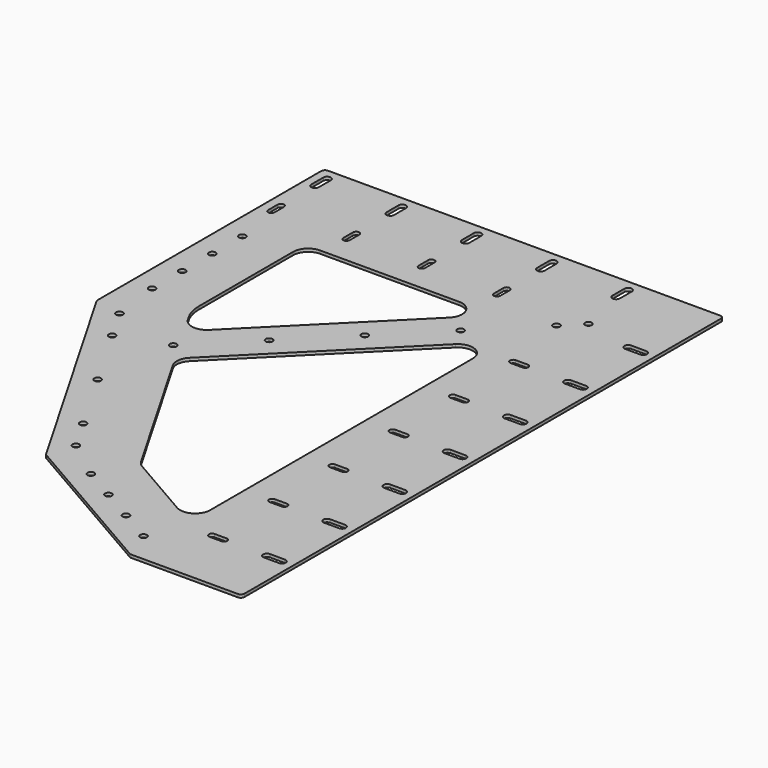
from build123d import *

# Parameters (mm, degrees)
F0_W      = 1500
F0_H      = 1500
F1_DEPTH  = 4
F2_R      = 7.5
F3_DEPTH  = 4.001
F5_DEPTH  = 4.001
F6_R      = 4.5
F7_DEPTH  = 4.001
F8_R      = 4.5
F9_DEPTH  = 4.001
F10_R     = 20
F11_R     = 10
F12_R     = 50
F13_R     = 4.1
F14_DEPTH = 4.001
F16_DEPTH = 4.001
F17_W     = 65
F17_H     = 736
F18_DEPTH = 4
F19_R     = 5
F20_W     = 10
F20_H     = 20
F20_W_2   = 20
F20_H_2   = 10
F21_DEPTH = 4.001


with BuildPart() as f1:
    # F0 (on Top) → F1 (new body)
    with BuildSketch(Plane.XY):
        Rectangle(F0_W, F0_H)
    extrude(amount=F1_DEPTH)

    # F2 (on face) → F3 (cut, through all)
    with BuildSketch(Plane.XY.offset(4)):
        with Locations((0, 630)):
            Circle(F2_R)
        with Locations((-484.1082007155, -208.5)):
            Circle(F2_R)
        with Locations((484.1082007155, -208.5)):
            Circle(F2_R)
        with Locations((-92, 470.0316403495)):
            Circle(F2_R)
        with Locations((92, 470.0316403495)):
            Circle(F2_R)
        with Locations((-127, 409.991150327)):
            Circle(F2_R)
        with Locations((127, 409.991150327)):
            Circle(F2_R)
        with Locations((-230.0749478413, -208.4808014441)):
            Circle(F2_R)
        with Locations((-357.0749478413, 11.4896511171)):
            Circle(F2_R)
        with Locations((-299.5715374564, -208.1901573229)):
            Circle(F2_R)
        with Locations((-391.5715374564, -48.8414830266)):
            Circle(F2_R)
        with Locations((391.5715374564, -48.8414830266)):
            Circle(F2_R)
        with Locations((299.5715374564, -208.1901573229)):
            Circle(F2_R)
        with Locations((230.0749478413, -208.4808014441)):
            Circle(F2_R)
        with Locations((357.0749478413, 11.4896511171)):
            Circle(F2_R)
        with Locations((0, 430)):
            Circle(F2_R)
        with Locations((310.9031199586, -108.5)):
            Circle(F2_R)
        with Locations((-310.9031199586, -108.5)):
            Circle(F2_R)
    extrude(amount=-F3_DEPTH, mode=Mode.SUBTRACT)

    # F4 (on face) → F5 (cut, through all)
    with BuildSketch(Plane.XY.offset(4)):
        Polygon((-374.6760648856, 670), (-627.5735931288, 670), (-397.6981580579, 440.1245649291), (-374.6760648856, 480), align=None)
        Polygon((397.6981580579, 440.1245649291), (627.5735931288, 670), (374.6760648856, 670), (374.6760648856, 480), align=None)
        Polygon((0, 42.4264068712), (257.5, 299.9264068712), (211.3119784648, 379.9264068712), (0, 379.9264068712), (-211.3119784648, 379.9264068712), (-257.5, 299.9264068712), align=None)
        Polygon((0, -42.4264068712), (-184.6092828496, -227.0356897208), (-152.6294373922, -282.4264068712), (0, -282.4264068712), (152.6294373922, -282.4264068712), (184.6092828496, -227.0356897208), align=None)
        Polygon((-315.6883994255, 0), (-215.6675682619, -173.2411613907), (-42.4264068712, 0), (-215.6675682619, 173.2411613907), (-288.5582854123, 246.1318785411), (-373.1754955849, 99.5705713275), align=None)
        Polygon((288.5582854123, 246.1318785411), (215.6675682619, 173.2411613907), (42.4264068712, 0), (215.6675682619, -173.2411613907), (315.6883994255, 0), (373.1754955849, 99.5705713275), align=None)
        Polygon((670, 108.4839396907), (670, 627.5735931288), (428.7564434702, 386.330036599), (548.7564434702, 178.4839396907), align=None)
        Polygon((-523.5898384862, -481.163431615), (-670, -227.5735931288), (-670, -627.5735931288), align=None)
        Polygon((670, -227.5735931288), (523.5898384862, -481.163431615), (670, -627.5735931288), align=None)
        Polygon((117.1539030917, -450), (0, -450), (-117.1539030917, -450), (-325, -570), (-267.264973081, -670), (0, -670), (267.264973081, -670), (325, -570), align=None)
        Polygon((-670, 627.5735931288), (-670, 108.4839396907), (-548.7564434702, 178.4839396907), (-428.7564434702, 386.330036599), align=None)
    extrude(amount=-F5_DEPTH, mode=Mode.SUBTRACT)

    # F6 (on face) → F7 (cut, through all)
    with BuildSketch(Plane.XY.offset(4)):
        with BuildLine():
            ThreePointArc((-604.2, 707), (-600, 702.8), (-595.8, 707))
            Line((-595.8, 707), (-595.8, 723))
            ThreePointArc((-595.8, 723), (-600, 727.2), (-604.2, 723))
            Line((-604.2, 723), (-604.2, 707))
        make_face()
        with BuildLine():
            Line((-504.2, 723), (-504.2, 707))
            ThreePointArc((-504.2, 707), (-500, 702.8), (-495.8, 707))
            Line((-495.8, 707), (-495.8, 723))
            ThreePointArc((-495.8, 723), (-500, 727.2), (-504.2, 723))
        make_face()
        with BuildLine():
            Line((-404.2, 723), (-404.2, 707))
            ThreePointArc((-404.2, 707), (-400, 702.8), (-395.8, 707))
            Line((-395.8, 707), (-395.8, 723))
            ThreePointArc((-395.8, 723), (-400, 727.2), (-404.2, 723))
        make_face()
        with BuildLine():
            Line((-304.2, 723), (-304.2, 707))
            ThreePointArc((-304.2, 707), (-300, 702.8), (-295.8, 707))
            Line((-295.8, 707), (-295.8, 723))
            ThreePointArc((-295.8, 723), (-300, 727.2), (-304.2, 723))
        make_face()
        with BuildLine():
            Line((-204.2, 723), (-204.2, 707))
            ThreePointArc((-204.2, 707), (-200, 702.8), (-195.8, 707))
            Line((-195.8, 707), (-195.8, 723))
            ThreePointArc((-195.8, 723), (-200, 727.2), (-204.2, 723))
        make_face()
        with BuildLine():
            Line((-104.2, 723), (-104.2, 707))
            ThreePointArc((-104.2, 707), (-100, 702.8), (-95.8, 707))
            Line((-95.8, 707), (-95.8, 723))
            ThreePointArc((-95.8, 723), (-100, 727.2), (-104.2, 723))
        make_face()
        with BuildLine():
            Line((-4.2, 723), (-4.2, 707))
            ThreePointArc((-4.2, 707), (0, 702.8), (4.2, 707))
            Line((4.2, 707), (4.2, 723))
            ThreePointArc((4.2, 723), (0, 727.2), (-4.2, 723))
        make_face()
        with BuildLine():
            Line((95.8, 723), (95.8, 707))
            ThreePointArc((95.8, 707), (100, 702.8), (104.2, 707))
            Line((104.2, 707), (104.2, 723))
            ThreePointArc((104.2, 723), (100, 727.2), (95.8, 723))
        make_face()
        with BuildLine():
            Line((195.8, 723), (195.8, 707))
            ThreePointArc((195.8, 707), (200, 702.8), (204.2, 707))
            Line((204.2, 707), (204.2, 723))
            ThreePointArc((204.2, 723), (200, 727.2), (195.8, 723))
        make_face()
        with BuildLine():
            Line((295.8, 723), (295.8, 707))
            ThreePointArc((295.8, 707), (300, 702.8), (304.2, 707))
            Line((304.2, 707), (304.2, 723))
            ThreePointArc((304.2, 723), (300, 727.2), (295.8, 723))
        make_face()
        with BuildLine():
            Line((395.8, 723), (395.8, 707))
            ThreePointArc((395.8, 707), (400, 702.8), (404.2, 707))
            Line((404.2, 707), (404.2, 723))
            ThreePointArc((404.2, 723), (400, 727.2), (395.8, 723))
        make_face()
        with BuildLine():
            Line((495.8, 723), (495.8, 707))
            ThreePointArc((495.8, 707), (500, 702.8), (504.2, 707))
            Line((504.2, 707), (504.2, 723))
            ThreePointArc((504.2, 723), (500, 727.2), (495.8, 723))
        make_face()
        with BuildLine():
            Line((595.8, 723), (595.8, 707))
            ThreePointArc((595.8, 707), (600, 702.8), (604.2, 707))
            Line((604.2, 707), (604.2, 723))
            ThreePointArc((604.2, 723), (600, 727.2), (595.8, 723))
        make_face()
        with BuildLine():
            ThreePointArc((-304.2, -723), (-300, -727.2), (-295.8, -723))
            Line((-295.8, -723), (-295.8, -707))
            ThreePointArc((-295.8, -707), (-300, -702.8), (-304.2, -707))
            Line((-304.2, -707), (-304.2, -723))
        make_face()
        with BuildLine():
            ThreePointArc((-504.2, -723), (-500, -727.2), (-495.8, -723))
            Line((-495.8, -723), (-495.8, -707))
            ThreePointArc((-495.8, -707), (-500, -702.8), (-504.2, -707))
            Line((-504.2, -707), (-504.2, -723))
        make_face()
        with BuildLine():
            Line((304.2, -723), (304.2, -707))
            ThreePointArc((304.2, -707), (300, -702.8), (295.8, -707))
            Line((295.8, -707), (295.8, -723))
            ThreePointArc((295.8, -723), (300, -727.2), (304.2, -723))
        make_face()
        with BuildLine():
            ThreePointArc((-595.8, -707), (-600, -702.8), (-604.2, -707))
            Line((-604.2, -707), (-604.2, -723))
            ThreePointArc((-604.2, -723), (-600, -727.2), (-595.8, -723))
            Line((-595.8, -723), (-595.8, -707))
        make_face()
        with BuildLine():
            ThreePointArc((4.2, -707), (0, -702.8), (-4.2, -707))
            Line((-4.2, -707), (-4.2, -723))
            ThreePointArc((-4.2, -723), (0, -727.2), (4.2, -723))
            Line((4.2, -723), (4.2, -707))
        make_face()
        with BuildLine():
            ThreePointArc((95.8, -723), (100, -727.2), (104.2, -723))
            Line((104.2, -723), (104.2, -707))
            ThreePointArc((104.2, -707), (100, -702.8), (95.8, -707))
            Line((95.8, -707), (95.8, -723))
        make_face()
        with BuildLine():
            ThreePointArc((-204.2, -723), (-200, -727.2), (-195.8, -723))
            Line((-195.8, -723), (-195.8, -707))
            ThreePointArc((-195.8, -707), (-200, -702.8), (-204.2, -707))
            Line((-204.2, -707), (-204.2, -723))
        make_face()
        with BuildLine():
            ThreePointArc((404.2, -707), (400, -702.8), (395.8, -707))
            Line((395.8, -707), (395.8, -723))
            ThreePointArc((395.8, -723), (400, -727.2), (404.2, -723))
            Line((404.2, -723), (404.2, -707))
        make_face()
        with BuildLine():
            ThreePointArc((495.8, -723), (500, -727.2), (504.2, -723))
            Line((504.2, -723), (504.2, -707))
            ThreePointArc((504.2, -707), (500, -702.8), (495.8, -707))
            Line((495.8, -707), (495.8, -723))
        make_face()
        with BuildLine():
            Line((-395.8, -723), (-395.8, -707))
            ThreePointArc((-395.8, -707), (-400, -702.8), (-404.2, -707))
            Line((-404.2, -707), (-404.2, -723))
            ThreePointArc((-404.2, -723), (-400, -727.2), (-395.8, -723))
        make_face()
        with BuildLine():
            ThreePointArc((595.8, -723), (600, -727.2), (604.2, -723))
            Line((604.2, -723), (604.2, -707))
            ThreePointArc((604.2, -707), (600, -702.8), (595.8, -707))
            Line((595.8, -707), (595.8, -723))
        make_face()
        with BuildLine():
            Line((204.2, -723), (204.2, -707))
            ThreePointArc((204.2, -707), (200, -702.8), (195.8, -707))
            Line((195.8, -707), (195.8, -723))
            ThreePointArc((195.8, -723), (200, -727.2), (204.2, -723))
        make_face()
        with BuildLine():
            Line((-95.8, -723), (-95.8, -707))
            ThreePointArc((-95.8, -707), (-100, -702.8), (-104.2, -707))
            Line((-104.2, -707), (-104.2, -723))
            ThreePointArc((-104.2, -723), (-100, -727.2), (-95.8, -723))
        make_face()
        with BuildLine():
            Line((-723, 595.8), (-707, 595.8))
            ThreePointArc((-707, 595.8), (-702.8, 600), (-707, 604.2))
            Line((-707, 604.2), (-723, 604.2))
            ThreePointArc((-723, 604.2), (-727.2, 600), (-723, 595.8))
        make_face()
        with BuildLine():
            ThreePointArc((-723, 504.2), (-727.2, 500), (-723, 495.8))
            Line((-723, 495.8), (-707, 495.8))
            ThreePointArc((-707, 495.8), (-702.8, 500), (-707, 504.2))
            Line((-707, 504.2), (-723, 504.2))
        make_face()
        with BuildLine():
            ThreePointArc((-723, -95.8), (-727.2, -100), (-723, -104.2))
            Line((-723, -104.2), (-707, -104.2))
            ThreePointArc((-707, -104.2), (-702.8, -100), (-707, -95.8))
            Line((-707, -95.8), (-723, -95.8))
        make_face()
        with BuildLine():
            ThreePointArc((-723, 304.2), (-727.2, 300), (-723, 295.8))
            Line((-723, 295.8), (-707, 295.8))
            ThreePointArc((-707, 295.8), (-702.8, 300), (-707, 304.2))
            Line((-707, 304.2), (-723, 304.2))
        make_face()
        with BuildLine():
            ThreePointArc((-707, 395.8), (-702.8, 400), (-707, 404.2))
            Line((-707, 404.2), (-723, 404.2))
            ThreePointArc((-723, 404.2), (-727.2, 400), (-723, 395.8))
            Line((-723, 395.8), (-707, 395.8))
        make_face()
        with BuildLine():
            ThreePointArc((-723, -495.8), (-727.2, -500), (-723, -504.2))
            Line((-723, -504.2), (-707, -504.2))
            ThreePointArc((-707, -504.2), (-702.8, -500), (-707, -495.8))
            Line((-707, -495.8), (-723, -495.8))
        make_face()
        with BuildLine():
            ThreePointArc((-707, -604.2), (-702.8, -600), (-707, -595.8))
            Line((-707, -595.8), (-723, -595.8))
            ThreePointArc((-723, -595.8), (-727.2, -600), (-723, -604.2))
            Line((-723, -604.2), (-707, -604.2))
        make_face()
        with BuildLine():
            ThreePointArc((-707, -204.2), (-702.8, -200), (-707, -195.8))
            Line((-707, -195.8), (-723, -195.8))
            ThreePointArc((-723, -195.8), (-727.2, -200), (-723, -204.2))
            Line((-723, -204.2), (-707, -204.2))
        make_face()
        with BuildLine():
            ThreePointArc((-707, 195.8), (-702.8, 200), (-707, 204.2))
            Line((-707, 204.2), (-723, 204.2))
            ThreePointArc((-723, 204.2), (-727.2, 200), (-723, 195.8))
            Line((-723, 195.8), (-707, 195.8))
        make_face()
        with BuildLine():
            ThreePointArc((-707, -304.2), (-702.8, -300), (-707, -295.8))
            Line((-707, -295.8), (-723, -295.8))
            ThreePointArc((-723, -295.8), (-727.2, -300), (-723, -304.2))
            Line((-723, -304.2), (-707, -304.2))
        make_face()
        with BuildLine():
            ThreePointArc((-707, 95.8), (-702.8, 100), (-707, 104.2))
            Line((-707, 104.2), (-723, 104.2))
            ThreePointArc((-723, 104.2), (-727.2, 100), (-723, 95.8))
            Line((-723, 95.8), (-707, 95.8))
        make_face()
        with BuildLine():
            ThreePointArc((-707, -404.2), (-702.8, -400), (-707, -395.8))
            Line((-707, -395.8), (-723, -395.8))
            ThreePointArc((-723, -395.8), (-727.2, -400), (-723, -404.2))
            Line((-723, -404.2), (-707, -404.2))
        make_face()
        with BuildLine():
            ThreePointArc((-707, -4.2), (-702.8, 0), (-707, 4.2))
            Line((-707, 4.2), (-723, 4.2))
            ThreePointArc((-723, 4.2), (-727.2, 0), (-723, -4.2))
            Line((-723, -4.2), (-707, -4.2))
        make_face()
        with BuildLine():
            Line((707, -304.2), (723, -304.2))
            ThreePointArc((723, -304.2), (727.2, -300), (723, -295.8))
            Line((723, -295.8), (707, -295.8))
            ThreePointArc((707, -295.8), (702.8, -300), (707, -304.2))
        make_face()
        with BuildLine():
            Line((707, -4.2), (723, -4.2))
            ThreePointArc((723, -4.2), (727.2, 0), (723, 4.2))
            Line((723, 4.2), (707, 4.2))
            ThreePointArc((707, 4.2), (702.8, 0), (707, -4.2))
        make_face()
        with BuildLine():
            Line((723, 604.2), (707, 604.2))
            ThreePointArc((707, 604.2), (702.8, 600), (707, 595.8))
            Line((707, 595.8), (723, 595.8))
            ThreePointArc((723, 595.8), (727.2, 600), (723, 604.2))
        make_face()
        with BuildLine():
            Line((707, -104.2), (723, -104.2))
            ThreePointArc((723, -104.2), (727.2, -100), (723, -95.8))
            Line((723, -95.8), (707, -95.8))
            ThreePointArc((707, -95.8), (702.8, -100), (707, -104.2))
        make_face()
        with BuildLine():
            ThreePointArc((707, 104.2), (702.8, 100), (707, 95.8))
            Line((707, 95.8), (723, 95.8))
            ThreePointArc((723, 95.8), (727.2, 100), (723, 104.2))
            Line((723, 104.2), (707, 104.2))
        make_face()
        with BuildLine():
            ThreePointArc((707, -195.8), (702.8, -200), (707, -204.2))
            Line((707, -204.2), (723, -204.2))
            ThreePointArc((723, -204.2), (727.2, -200), (723, -195.8))
            Line((723, -195.8), (707, -195.8))
        make_face()
        with BuildLine():
            Line((723, 304.2), (707, 304.2))
            ThreePointArc((707, 304.2), (702.8, 300), (707, 295.8))
            Line((707, 295.8), (723, 295.8))
            ThreePointArc((723, 295.8), (727.2, 300), (723, 304.2))
        make_face()
        with BuildLine():
            Line((723, -395.8), (707, -395.8))
            ThreePointArc((707, -395.8), (702.8, -400), (707, -404.2))
            Line((707, -404.2), (723, -404.2))
            ThreePointArc((723, -404.2), (727.2, -400), (723, -395.8))
        make_face()
        with BuildLine():
            Line((723, 504.2), (707, 504.2))
            ThreePointArc((707, 504.2), (702.8, 500), (707, 495.8))
            Line((707, 495.8), (723, 495.8))
            ThreePointArc((723, 495.8), (727.2, 500), (723, 504.2))
        make_face()
        with BuildLine():
            Line((723, 204.2), (707, 204.2))
            ThreePointArc((707, 204.2), (702.8, 200), (707, 195.8))
            Line((707, 195.8), (723, 195.8))
            ThreePointArc((723, 195.8), (727.2, 200), (723, 204.2))
        make_face()
        with BuildLine():
            Line((707, 395.8), (723, 395.8))
            ThreePointArc((723, 395.8), (727.2, 400), (723, 404.2))
            Line((723, 404.2), (707, 404.2))
            ThreePointArc((707, 404.2), (702.8, 400), (707, 395.8))
        make_face()
        with BuildLine():
            Line((723, -595.8), (707, -595.8))
            ThreePointArc((707, -595.8), (702.8, -600), (707, -604.2))
            Line((707, -604.2), (723, -604.2))
            ThreePointArc((723, -604.2), (727.2, -600), (723, -595.8))
        make_face()
        with BuildLine():
            Line((707, -504.2), (723, -504.2))
            ThreePointArc((723, -504.2), (727.2, -500), (723, -495.8))
            Line((723, -495.8), (707, -495.8))
            ThreePointArc((707, -495.8), (702.8, -500), (707, -504.2))
        make_face()
        with Locations((-715, 715)):
            Circle(F6_R)
        with Locations((715, 715)):
            Circle(F6_R)
        with Locations((-715, -715)):
            Circle(F6_R)
        with Locations((715, -715)):
            Circle(F6_R)
    extrude(amount=-F7_DEPTH, mode=Mode.SUBTRACT)

    # F8 (on face) → F9 (cut, through all)
    with BuildSketch(Plane.XY.offset(4)):
        with Locations((311.7999814952, 644.4301434281)):
            Circle(F8_R)
        with Locations((311.7999814952, 544.4301434281)):
            Circle(F8_R)
        with Locations((345.5499814952, 385.9734286726)):
            Circle(F8_R)
        with Locations((395.5499814952, 299.3708882942)):
            Circle(F8_R)
        with Locations((445.5499814952, 212.7683479158)):
            Circle(F8_R)
        with Locations((565.9025218736, 104.3116331603)):
            Circle(F8_R)
        with Locations((652.5050622521, 54.3116331603)):
            Circle(F8_R)
        with Locations((311.7999814952, 494.4301434281)):
            Circle(F8_R)
        with Locations((522.6012516844, 129.3116331603)):
            Circle(F8_R)
        with Locations((311.7999814952, 594.4301434281)):
            Circle(F8_R)
        with Locations((609.2037920629, 79.3116331603)):
            Circle(F8_R)
        with Locations((320.5499814952, 429.2746988619)):
            Circle(F8_R)
        with Locations((-522.6012516844, 129.3116331603)):
            Circle(F8_R)
        with Locations((-565.9025218736, 104.3116331603)):
            Circle(F8_R)
        with Locations((-609.2037920629, 79.3116331603)):
            Circle(F8_R)
        with Locations((-652.5050622521, 54.3116331603)):
            Circle(F8_R)
        with Locations((-311.7999814952, 544.4301434281)):
            Circle(F8_R)
        with Locations((-311.7999814952, 594.4301434281)):
            Circle(F8_R)
        with Locations((-311.7999814952, 644.4301434281)):
            Circle(F8_R)
        with Locations((-311.7999814952, 494.4301434281)):
            Circle(F8_R)
        with Locations((-320.5499814952, 429.2746988619)):
            Circle(F8_R)
        with Locations((-345.5499814952, 385.9734286726)):
            Circle(F8_R)
        with Locations((-395.5499814952, 299.3708882942)):
            Circle(F8_R)
        with Locations((-445.5499814952, 212.7683479158)):
            Circle(F8_R)
        with Locations((210.8012701892, -410.7417765884)):
            Circle(F8_R)
        with Locations((297.4038105677, -460.7417765884)):
            Circle(F8_R)
        with Locations((340.7050807569, -485.7417765884)):
            Circle(F8_R)
        with Locations((254.1025403784, -435.7417765884)):
            Circle(F8_R)
        with Locations((100, -385.7417765884)):
            Circle(F8_R)
        with Locations((-150, -385.7417765884)):
            Circle(F8_R)
        with Locations((0, -385.7417765884)):
            Circle(F8_R)
        with Locations((-297.4038105677, -460.7417765884)):
            Circle(F8_R)
        with Locations((-340.7050807569, -485.7417765884)):
            Circle(F8_R)
        with Locations((-210.8012701892, -410.7417765884)):
            Circle(F8_R)
        with Locations((-254.1025403784, -435.7417765884)):
            Circle(F8_R)
        with Locations((-100, -385.7417765884)):
            Circle(F8_R)
        with Locations((470.5499814952, 169.4670777265)):
            Circle(F8_R)
        with Locations((150, -385.7417765884)):
            Circle(F8_R)
        with Locations((-470.5499814952, 169.4670777265)):
            Circle(F8_R)
        with Locations((-650.8172400786, -131.5444279957)):
            Circle(F8_R)
        with Locations((-600.8172400786, -218.1469683742)):
            Circle(F8_R)
        with Locations((-550.8172400786, -304.7495087526)):
            Circle(F8_R)
        with Locations((-500.8172400786, -391.3520491311)):
            Circle(F8_R)
        with Locations((-450.8172400786, -477.9545895095)):
            Circle(F8_R)
        with Locations((-400.8172400786, -564.5571298879)):
            Circle(F8_R)
        with Locations((-350.8172400786, -651.1596702664)):
            Circle(F8_R)
        with Locations((691.4213562373, 691.4213562373)):
            Circle(F8_R)
        with Locations((620.7106781187, 620.7106781187)):
            Circle(F8_R)
        with Locations((550, 550)):
            Circle(F8_R)
        with Locations((479.2893218813, 479.2893218813)):
            Circle(F8_R)
        with Locations((408.5786437627, 408.5786437627)):
            Circle(F8_R)
        with Locations((-408.5786437627, 408.5786437627)):
            Circle(F8_R)
        with Locations((-550, 550)):
            Circle(F8_R)
        with Locations((-479.2893218813, 479.2893218813)):
            Circle(F8_R)
        with Locations((-620.7106781187, 620.7106781187)):
            Circle(F8_R)
        with Locations((-691.4213562373, 691.4213562373)):
            Circle(F8_R)
        with Locations((600.8172400786, -218.1469683742)):
            Circle(F8_R)
        with Locations((550.8172400786, -304.7495087526)):
            Circle(F8_R)
        with Locations((650.8172400786, -131.5444279957)):
            Circle(F8_R)
        with Locations((450.8172400786, -477.9545895095)):
            Circle(F8_R)
        with Locations((500.8172400786, -391.3520491311)):
            Circle(F8_R)
        with Locations((400.8172400786, -564.5571298879)):
            Circle(F8_R)
        with Locations((350.8172400786, -651.1596702664)):
            Circle(F8_R)
        Circle(F8_R)
        with Locations((-70.7106781187, 70.7106781187)):
            Circle(F8_R)
        with Locations((-141.4213562373, 141.4213562373)):
            Circle(F8_R)
        with Locations((-212.132034356, 212.132034356)):
            Circle(F8_R)
        with Locations((-282.8427124746, 282.8427124746)):
            Circle(F8_R)
        with Locations((70.7106781187, 70.7106781187)):
            Circle(F8_R)
        with Locations((141.4213562373, 141.4213562373)):
            Circle(F8_R)
        with Locations((212.132034356, 212.132034356)):
            Circle(F8_R)
        with Locations((282.8427124746, 282.8427124746)):
            Circle(F8_R)
        with Locations((-70.7106781187, -70.7106781187)):
            Circle(F8_R)
        with Locations((-141.4213562373, -141.4213562373)):
            Circle(F8_R)
        with Locations((70.7106781187, -70.7106781187)):
            Circle(F8_R)
        with Locations((141.4213562373, -141.4213562373)):
            Circle(F8_R)
    extrude(amount=-F9_DEPTH, mode=Mode.SUBTRACT)

    # F10
    f10_edges = [f1.edges().sort_by_distance(p)[0] for p in [
        (-627.573593, 670, 2),
        (-374.676065, 670, 2),
        (-397.698158, 440.124565, 2),
        (627.573593, 670, 2),
        (374.676065, 670, 2),
        (397.698158, 440.124565, 2),
        (-670, 627.573593, 2),
        (-428.756443, 386.330037, 2),
        (-548.756443, 178.48394, 2),
        (-670, 108.48394, 2),
        (670, 627.573593, 2),
        (428.756443, 386.330037, 2),
        (548.756443, 178.48394, 2),
        (670, 108.48394, 2),
        (-211.311978, 379.926407, 2),
        (211.311978, 379.926407, 2),
        (257.5, 299.926407, 2),
        (0, 42.426407, 2),
        (-257.5, 299.926407, 2),
        (-288.558285, 246.131879, 2),
        (-373.175496, 99.570571, 2),
        (-42.426407, 0, 2),
        (-215.667568, -173.241161, 2),
        (288.558285, 246.131879, 2),
        (373.175496, 99.570571, 2),
        (215.667568, -173.241161, 2),
        (42.426407, 0, 2),
        (0, -42.426407, 2),
        (184.609283, -227.03569, 2),
        (152.629437, -282.426407, 2),
        (-152.629437, -282.426407, 2),
        (-184.609283, -227.03569, 2),
        (-523.589838, -481.163432, 2),
        (-117.153903, -450, 2),
        (117.153903, -450, 2),
        (325, -570, 2),
        (267.264973, -670, 2),
        (-267.264973, -670, 2),
        (-325, -570, 2),
        (523.589838, -481.163432, 2),
    ]]
    fillet(f10_edges, radius=F10_R)

    # F11
    f11_edges = [f1.edges().sort_by_distance(p)[0] for p in [
        (-670, -227.573593, 2),
        (-670, -627.573593, 2),
        (670, -227.573593, 2),
        (670, -627.573593, 2),
    ]]
    fillet(f11_edges, radius=F11_R)

    # F12
    f12_edges = [f1.edges().sort_by_distance(p)[0] for p in [
        (-374.676065, 480, 2),
        (374.676065, 480, 2),
    ]]
    fillet(f12_edges, radius=F12_R)

    # F13 (on face) → F14 (cut, through all)
    with BuildSketch(Plane.XY.offset(4)):
        with Locations((-235, 480.0316403495)):
            Circle(F13_R)
        with Locations((-285, 393.429099971)):
            Circle(F13_R)
        with Locations((-335, 306.8265595926)):
            Circle(F13_R)
        with Locations((335, 306.8265595926)):
            Circle(F13_R)
        with Locations((285, 393.429099971)):
            Circle(F13_R)
        with Locations((235, 480.0316403495)):
            Circle(F13_R)
        with Locations((-385, 220.2240192142)):
            Circle(F13_R)
        with Locations((385, 220.2240192142)):
            Circle(F13_R)
        with Locations((-435, 133.6214788357)):
            Circle(F13_R)
        with Locations((435, 133.6214788357)):
            Circle(F13_R)
        with Locations((-485, 47.0189384573)):
            Circle(F13_R)
        with Locations((485, 47.0189384573)):
            Circle(F13_R)
    extrude(amount=-F14_DEPTH, mode=Mode.SUBTRACT)

    # F15 (on face) → F16 (cut, through all)
    with BuildSketch(Plane.XY.offset(4)):
        Polygon((284, 750), (-750, 750), (-750, -750), (750, -750), (750, 14), (667, 14), (459, 134.0888559914), (284, 437.197747316), align=None)
    extrude(amount=-F16_DEPTH, mode=Mode.SUBTRACT)

    # F17 (on face) → F18 (join)
    with BuildSketch(Plane.XY.offset(4)):
        Polygon((284, 815), (284, 750), (750, 750), (815, 750), (815, 815), align=None)
        with Locations((782.5, 382)):
            Rectangle(F17_W, F17_H)
    extrude(amount=-F18_DEPTH)

    # F19
    f19_edges = [f1.edges().sort_by_distance(p)[0] for p in [
        (284, 815, 2),
        (815, 815, 2),
        (815, 14, 2),
        (667, 14, 2),
        (459, 134.088856, 2),
        (284, 437.197747, 2),
    ]]
    fillet(f19_edges, radius=F19_R)

    # F20 (on face) → F21 (cut, through all)
    with BuildSketch(Plane.XY.offset(4)):
        with BuildLine():
            ThreePointArc((304.8, 800), (299.8, 805), (294.8, 800))
            Line((294.8, 800), (304.8, 800))
        make_face()
        with Locations((299.8, 790)):
            Rectangle(F20_W, F20_H)
        with BuildLine():
            Line((304.8, 780), (294.8, 780))
            ThreePointArc((294.8, 780), (299.8, 775), (304.8, 780))
        make_face()
        with BuildLine():
            Line((404.8, 780), (404.8, 800))
            ThreePointArc((404.8, 800), (399.8, 805), (394.8, 800))
            Line((394.8, 800), (394.8, 780))
            ThreePointArc((394.8, 780), (399.8, 775), (404.8, 780))
        make_face()
        with BuildLine():
            Line((504.8, 780), (504.8, 800))
            ThreePointArc((504.8, 800), (499.8, 805), (494.8, 800))
            Line((494.8, 800), (494.8, 780))
            ThreePointArc((494.8, 780), (499.8, 775), (504.8, 780))
        make_face()
        with BuildLine():
            Line((604.8, 780), (604.8, 800))
            ThreePointArc((604.8, 800), (599.8, 805), (594.8, 800))
            Line((594.8, 800), (594.8, 780))
            ThreePointArc((594.8, 780), (599.8, 775), (604.8, 780))
        make_face()
        with BuildLine():
            Line((704.8, 780), (704.8, 800))
            ThreePointArc((704.8, 800), (699.8, 805), (694.8, 800))
            Line((694.8, 800), (694.8, 780))
            ThreePointArc((694.8, 780), (699.8, 775), (704.8, 780))
        make_face()
        with BuildLine():
            ThreePointArc((800, -5.2), (805, -0.2), (800, 4.8))
            Line((800, 4.8), (800, -5.2))
        make_face()
        with Locations((790, -0.2)):
            Rectangle(F20_W_2, F20_H_2)
        with BuildLine():
            Line((780, -5.2), (780, 4.8))
            ThreePointArc((780, 4.8), (775, -0.2), (780, -5.2))
        make_face()
        with BuildLine():
            Line((780, 94.8), (800, 94.8))
            ThreePointArc((800, 94.8), (805, 99.8), (800, 104.8))
            Line((800, 104.8), (780, 104.8))
            ThreePointArc((780, 104.8), (775, 99.8), (780, 94.8))
        make_face()
        with BuildLine():
            Line((780, 194.8), (800, 194.8))
            ThreePointArc((800, 194.8), (805, 199.8), (800, 204.8))
            Line((800, 204.8), (780, 204.8))
            ThreePointArc((780, 204.8), (775, 199.8), (780, 194.8))
        make_face()
        with BuildLine():
            Line((780, 294.8), (800, 294.8))
            ThreePointArc((800, 294.8), (805, 299.8), (800, 304.8))
            Line((800, 304.8), (780, 304.8))
            ThreePointArc((780, 304.8), (775, 299.8), (780, 294.8))
        make_face()
        with BuildLine():
            Line((780, 394.8), (800, 394.8))
            ThreePointArc((800, 394.8), (805, 399.8), (800, 404.8))
            Line((800, 404.8), (780, 404.8))
            ThreePointArc((780, 404.8), (775, 399.8), (780, 394.8))
        make_face()
        with BuildLine():
            Line((780, 494.8), (800, 494.8))
            ThreePointArc((800, 494.8), (805, 499.8), (800, 504.8))
            Line((800, 504.8), (780, 504.8))
            ThreePointArc((780, 504.8), (775, 499.8), (780, 494.8))
        make_face()
        with BuildLine():
            Line((780, 594.8), (800, 594.8))
            ThreePointArc((800, 594.8), (805, 599.8), (800, 604.8))
            Line((800, 604.8), (780, 604.8))
            ThreePointArc((780, 604.8), (775, 599.8), (780, 594.8))
        make_face()
        with BuildLine():
            Line((780, 694.8), (800, 694.8))
            ThreePointArc((800, 694.8), (805, 699.8), (800, 704.8))
            Line((800, 704.8), (780, 704.8))
            ThreePointArc((780, 704.8), (775, 699.8), (780, 694.8))
        make_face()
    extrude(amount=-F21_DEPTH, mode=Mode.SUBTRACT)


solid = f1.part
